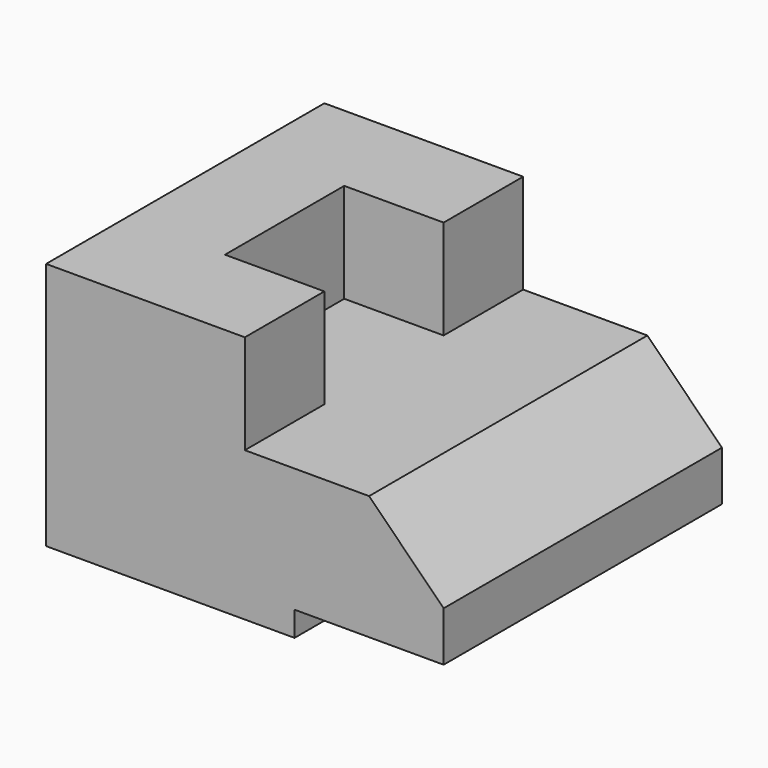
from build123d import *

# Parameters (mm, degrees)
F1_DEPTH = 70
F2_W     = 20
F2_H     = 30
F3_DEPTH = 20


with BuildPart() as f1:
    # F0 (on Front) → F1 (new body)
    with BuildSketch(Plane.XZ):
        Polygon((-50, 50), (-50, 0), (0, 0), (0, 5), (30, 5), (30, 15), (15, 30), (-10, 30), (-10, 50), align=None)
    extrude(amount=F1_DEPTH)

    # F2 (on face) → F3 (cut)
    with BuildSketch(Plane.XY.offset(50)):
        with Locations((-20, -35)):
            Rectangle(F2_W, F2_H)
    extrude(amount=-F3_DEPTH, mode=Mode.SUBTRACT)


solid = f1.part
